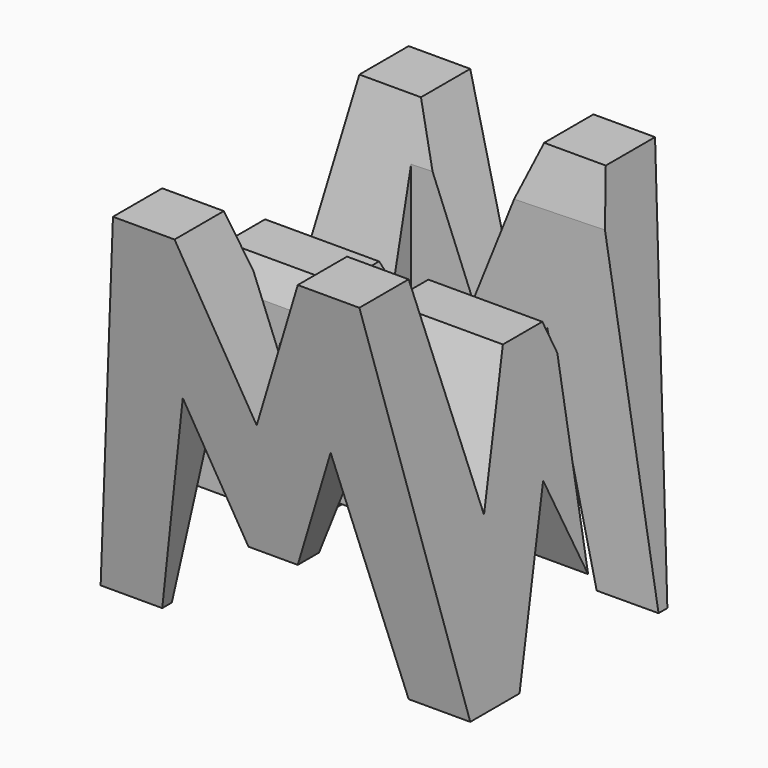
from build123d import *

# Parameters (mm, degrees)
F0_W      = 38.1
F0_H      = 38.1
F1_DEPTH  = 38.1
F6_DEPTH  = 38.1
F8_DEPTH  = 38.1
F10_DEPTH = 38.1


with BuildPart() as f1:
    # F0 (on Front) → F1 (new body)
    with BuildSketch(Plane.XZ):
        with Locations((19.05, 19.05)):
            Rectangle(F0_W, F0_H)
    extrude(amount=F1_DEPTH)

    # F5 (on offset) → F6 (cut)
    with BuildSketch(Plane.YZ.offset(38.1)):
        Polygon((-6.35, 0), (0, 0), (0, 38.1), align=None)
        Polygon((-25.4, 0), (-12.7, 0), (-19.05, 15.875), align=None)
        Polygon((-31.75, 0), (-38.1, 38.1), (-38.1, 0), align=None)
        Polygon((-11.43, 15.875), (-6.35, 38.1), (-31.75, 38.1), (-26.67, 15.875), (-21.59, 28.575), (-16.51, 28.575), align=None)
    extrude(amount=-F6_DEPTH, mode=Mode.SUBTRACT)

    # F7 (on offset) → F8 (cut)
    with BuildSketch(Plane.XZ.offset(38.1)):
        Polygon((25.4, 38.1), (12.7, 38.1), (19.05, 22.225), align=None)
        Polygon((38.1, 38.1), (31.75, 38.1), (38.1, 0), align=None)
        Polygon((11.43, 22.225), (6.35, 0), (31.75, 0), (26.67, 22.225), (21.59, 9.525), (16.51, 9.525), align=None)
        Polygon((6.35, 38.1), (0, 38.1), (0, 0), align=None)
    extrude(amount=-F8_DEPTH, mode=Mode.SUBTRACT)

    # F9 (on offset) → F10 (cut)
    with BuildSketch(Plane.XY.offset(38.1)):
        Polygon((38.1, -15.24), (38.1, -7.485609), (12.7, -7.62), (12.7, -15.24), align=None)
        Polygon((25.4, -22.86), (0, -22.86), (0, -30.480013), (25.4, -30.618137), align=None)
    extrude(amount=-F10_DEPTH, mode=Mode.SUBTRACT)


solid = f1.part
